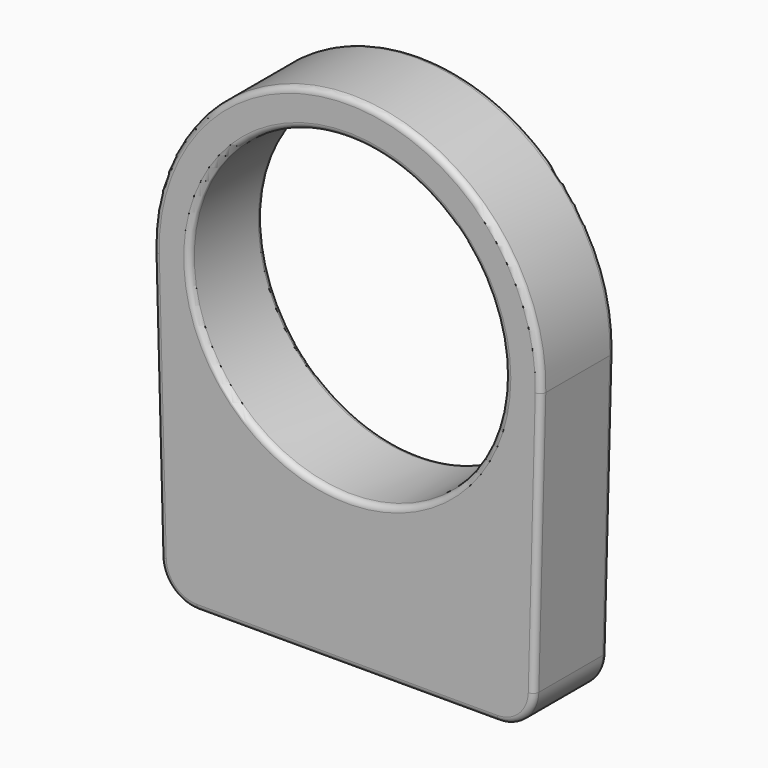
from build123d import *

# Parameters (mm, degrees)
F0_R     = 13.63345
F1_DEPTH = 3.96875
F2_R     = 0.508


with BuildPart() as f1:
    # F0 (on Front) → F1 (new body, symmetric)
    with BuildSketch(Plane.XZ):
        with BuildLine():
            Line((16.155658, -23.451112), (16.758255, -0.43883))
            ThreePointArc((16.758255, -0.43883), (0, 16.764), (-16.758255, -0.43883))
            Line((-16.758255, -0.43883), (-16.155658, -23.451112))
            ThreePointArc((-16.155658, -23.451112), (-15.19723, -25.642259), (-12.981746, -26.543))
            Line((-12.981746, -26.543), (12.981746, -26.543))
            ThreePointArc((12.981746, -26.543), (15.19723, -25.642259), (16.155658, -23.451112))
        make_face()
        Circle(F0_R, mode=Mode.SUBTRACT)
    extrude(amount=F1_DEPTH, both=True)

    # F2
    f2_edges = [f1.edges().sort_by_distance(p)[0] for p in [
        (15.19723, -3.96875, -25.642259),
        (16.456956, -3.96875, -11.944971),
        (0, -3.96875, 16.764),
        (-16.456956, -3.96875, -11.944971),
        (-15.19723, -3.96875, -25.642259),
        (0, -3.96875, -26.543),
        (-13.63345, -3.96875, 0),
        (15.19723, 3.96875, -25.642259),
        (16.456956, 3.96875, -11.944971),
        (0, 3.96875, 16.764),
        (-16.456956, 3.96875, -11.944971),
        (-15.19723, 3.96875, -25.642259),
        (0, 3.96875, -26.543),
        (-13.63345, 3.96875, 0),
    ]]
    fillet(f2_edges, radius=F2_R)


solid = f1.part
